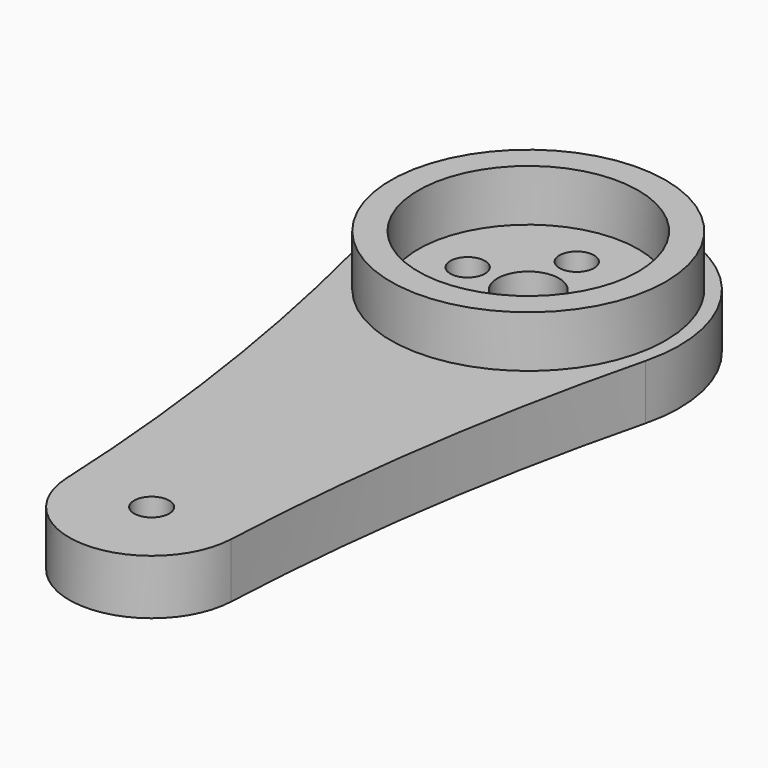
from build123d import *

# Parameters (mm, degrees)
F0_R     = 2.03381
F0_R_2   = 2
F0_R_3   = 3.556
F1_DEPTH = 6.35
F2_R     = 15.875
F2_R_2   = 12.7
F3_DEPTH = 5.969


with BuildPart() as f1:
    # F0 (on Top) → F1 (new body)
    with BuildSketch(Plane.XY):
        with BuildLine():
            ThreePointArc((9.51531, -31.621344), (11.952024, -6.172164), (16.934656, 18.903157))
            ThreePointArc((16.934656, 18.903157), (0, 40.626683), (-16.934656, 18.903157))
            ThreePointArc((-16.934656, 18.903157), (-11.952024, -6.172164), (-9.51531, -31.621344))
            ThreePointArc((-9.51531, -31.621344), (0, -40.716817), (9.51531, -31.621344))
        make_face()
        with Locations((0, -31.191817)):
            Circle(F0_R, mode=Mode.SUBTRACT)
        with Locations((-7, 23.164183)):
            Circle(F0_R_2, mode=Mode.SUBTRACT)
        with Locations((0, 16.164183)):
            Circle(F0_R_2, mode=Mode.SUBTRACT)
        with Locations((0, 23.164183)):
            Circle(F0_R_3, mode=Mode.SUBTRACT)
        with Locations((0, 30.164183)):
            Circle(F0_R_2, mode=Mode.SUBTRACT)
        with Locations((7, 23.164183)):
            Circle(F0_R_2, mode=Mode.SUBTRACT)
    extrude(amount=-F1_DEPTH)

    # F2 (on face) → F3 (join)
    with BuildSketch(Plane.XY):
        with Locations((0, 23.164183)):
            Circle(F2_R)
        with Locations((0, 23.164183)):
            Circle(F2_R_2, mode=Mode.SUBTRACT)
    extrude(amount=F3_DEPTH)


solid = f1.part
